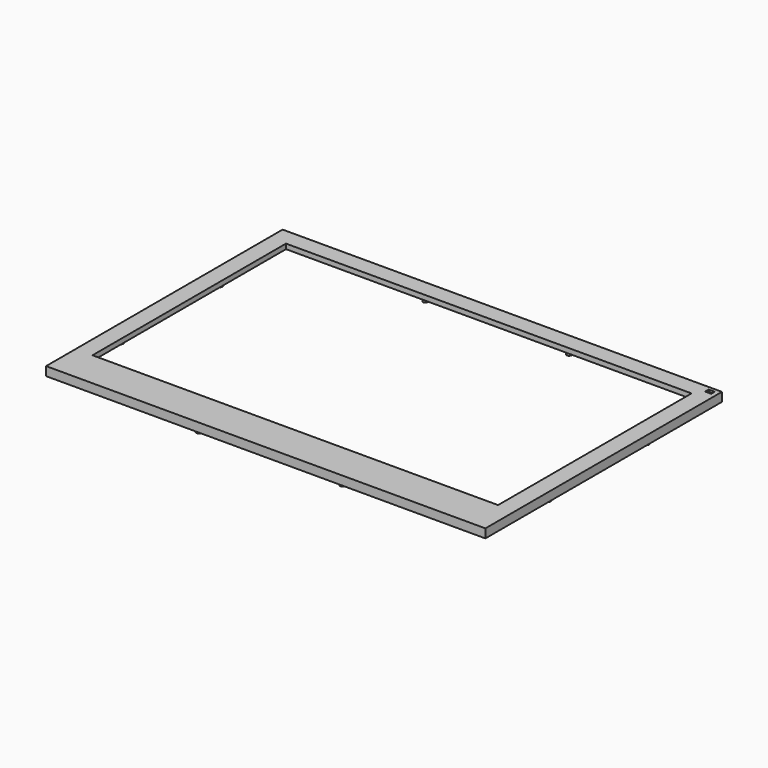
from build123d import *

# Parameters (mm, degrees)
SKETCH001_W     = 178.4
SKETCH001_H     = 120.07
SKETCH001_W_2   = 164.7
SKETCH001_H_2   = 98.22
PAD_DEPTH       = 2
SKETCH_W        = 178.4
SKETCH_H        = 120.07
PAD001_DEPTH    = 1.6
SKETCH009_W     = 5
SKETCH009_H     = 4
POCKET_DEPTH    = 2.9
SKETCH010_W     = 2.5
SKETCH010_H     = 1.8
POCKET001_DEPTH = 5
SKETCH011_R     = 1
PAD009_DEPTH    = 1.5


with BuildPart() as part:
    # Sketch001 (on Face45 of Binder) → Pad (new body)
    with BuildSketch(Plane.XY.offset(1.19)):
        with Locations((0, -0.305)):
            Rectangle(SKETCH001_W, SKETCH001_H)
        with Locations((0, 3.77)):
            Rectangle(SKETCH001_W_2, SKETCH001_H_2, mode=Mode.SUBTRACT)
    extrude(amount=PAD_DEPTH)

    # Sketch (on Face9 of Pad) → Pad001 (join)
    with BuildSketch(Plane(origin=(0, 0, 1.19), x_dir=(1, 0, 0), z_dir=(0, 0, -1))):
        with Locations((0, 0.305)):
            Rectangle(SKETCH_W, SKETCH_H)
        Polygon((-85.35, 55.86), (-85.35, -55.86), (85.35, -55.86), (85.35, 55.86), (11.4649, 55.86), (11.4649, 59.34), (-11.4649, 59.34), (-11.4649, 55.86), align=None, mode=Mode.SUBTRACT)
    extrude(amount=PAD001_DEPTH)

    # Sketch009 (on Face1 of Pad001) → Pocket (cut)
    with BuildSketch(Plane(origin=(0, 0, -0.41), x_dir=(1, 0, 0), z_dir=(0, 0, -1))):
        with Locations((85.7, -56.73)):
            Rectangle(SKETCH009_W, SKETCH009_H)
    extrude(amount=-POCKET_DEPTH, mode=Mode.SUBTRACT)

    # Sketch010 (on Face19 of Pocket) → Pocket001 (cut)
    with BuildSketch(Plane(origin=(0, 0, 1.19), x_dir=(1, 0, 0), z_dir=(0, 0, -1))):
        with Locations((86.14, -57.44)):
            Rectangle(SKETCH010_W, SKETCH010_H)
    extrude(amount=-POCKET001_DEPTH, mode=Mode.SUBTRACT)

    # Sketch011 (on Face1 of Pocket001) → Pad009 (join)
    with BuildSketch(Plane(origin=(0, 0, -0.41), x_dir=(1, 0, 0), z_dir=(0, 0, -1))):
        with Locations((-29.2, 57.84)):
            Circle(SKETCH011_R)
        with Locations((29.2, 57.84)):
            Circle(SKETCH011_R)
        with Locations((-29.2, -57.23)):
            Circle(SKETCH011_R)
        with Locations((29.2, -57.23)):
            Circle(SKETCH011_R)
        with Locations((-86.7, -24.73)):
            Circle(SKETCH011_R)
        with Locations((-86.7, 25.34)):
            Circle(SKETCH011_R)
        with Locations((86.7, 25.34)):
            Circle(SKETCH011_R)
        with Locations((86.7, -24.73)):
            Circle(SKETCH011_R)
    extrude(amount=PAD009_DEPTH)


solid = part.part
